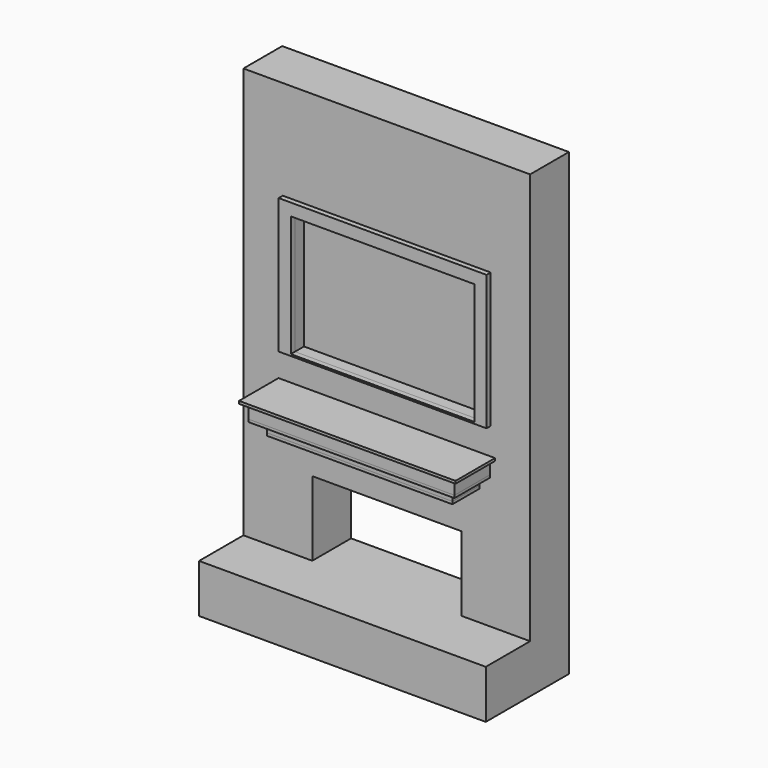
from build123d import *

# Parameters (mm, degrees)
F0_W      = 1473.2
F0_H      = 101.6
F1_DEPTH  = 304.8
F2_W      = 19.05
F2_H      = 304.8
F3_DEPTH  = 101.6
F4_W      = 1473.2
F4_H      = 304.8
F5_DEPTH  = 19.05
F6_W      = 1473.2
F6_H      = 304.8
F7_DEPTH  = 19.05
F8_W      = 19.05
F8_H      = 228.6
F9_DEPTH  = 76.2
F10_W     = 1320.8
F10_H     = 228.6
F11_DEPTH = 19.05
F12_W     = 1473.2
F12_H     = 101.6
F12_W_2   = 1346.2
F12_H_2   = 889
F13_DEPTH = 355.6
F14_DEPTH = 101.6
F15_W     = 504.825
F15_H     = 355.6
F16_DEPTH = 355.6
F18_DEPTH = 127
F20_DEPTH = 1468.6634540558
F22_DEPTH = 38.1
F23_DEPTH = 19.05


with BuildPart() as f1:
    # F0 (on Front) → F1 (new body)
    with BuildSketch(Plane.XZ):
        with Locations((0, -50.8)):
            Rectangle(F0_W, F0_H)
    extrude(amount=F1_DEPTH)


with BuildPart() as f3:
    # F2 (on face) → F3 (new body, through all)
    with BuildSketch(Plane(origin=(0, 0, -101.6), x_dir=(1, 0, 0), z_dir=(0, 0, -1))):
        Polygon((755.65, 323.85), (-755.65, 323.85), (-755.65, 304.8), (-736.6, 304.8), (736.6, 304.8), (755.65, 304.8), align=None)
        with Locations((-746.125, 152.4)):
            Rectangle(F2_W, F2_H)
        with Locations((746.125, 152.4)):
            Rectangle(F2_W, F2_H)
    extrude(amount=-F3_DEPTH)


with BuildPart() as f5:
    # F4 (on face) → F5 (new body)
    with BuildSketch(Plane(origin=(0, 0, -101.6), x_dir=(1, 0, 0), z_dir=(0, 0, -1))):
        Polygon((755.65, 323.85), (-755.65, 323.85), (-755.65, 0), (-736.6, 0), (-736.6, 304.8), (736.6, 304.8), (736.6, 0), (755.65, 0), align=None)
        with Locations((0, 152.4)):
            Rectangle(F4_W, F4_H)
    extrude(amount=F5_DEPTH)


with BuildPart() as f7:
    # F6 (on face) → F7 (new body)
    with BuildSketch(Plane.XY):
        with Locations((0, -152.4)):
            Rectangle(F6_W, F6_H)
        Polygon((-736.6, 0), (-755.65, 0), (-793.75, 0), (-793.75, -361.95), (793.75, -361.95), (793.75, 0), (755.65, 0), (736.6, 0), (736.6, -304.8), (-736.6, -304.8), align=None)
    extrude(amount=F7_DEPTH)


with BuildPart() as f9:
    # F8 (on face) → F9 (new body)
    with BuildSketch(Plane(origin=(0, 0, -120.65), x_dir=(1, 0, 0), z_dir=(0, 0, -1))):
        with Locations((-669.925, 114.3)):
            Rectangle(F8_W, F8_H)
        Polygon((-679.45, 247.65), (-679.45, 228.6), (-660.4, 228.6), (660.4, 228.6), (679.45, 228.6), (679.45, 247.65), align=None)
        with Locations((669.925, 114.3)):
            Rectangle(F8_W, F8_H)
    extrude(amount=F9_DEPTH)


with BuildPart() as f11:
    # F10 (on face) → F11 (new body)
    with BuildSketch(Plane(origin=(0, 0, -196.85), x_dir=(1, 0, 0), z_dir=(0, 0, -1))):
        Polygon((679.45, 0), (679.45, 247.65), (-679.45, 247.65), (-679.45, 0), (-660.4, 0), (-660.4, 228.6), (660.4, 228.6), (660.4, 0), align=None)
        with Locations((0, 114.3)):
            Rectangle(F10_W, F10_H)
    extrude(amount=F11_DEPTH)


with BuildPart() as f13:
    # F12 (on face) → F13 (new body)
    with BuildSketch(Plane(origin=(0, 0, 0), x_dir=(-1, 0, 0), z_dir=(0, 1, 0))):
        Polygon((-1050.925, 1117.6), (-1050.925, -1079.5), (-546.1, -1079.5), (-546.1, -533.4), (546.1, -533.4), (546.1, -1079.5), (1050.925, -1079.5), (1050.925, 1117.6), (1050.925, 1933.5181713104), (-1050.925, 1933.5181713104), align=None)
        with Locations((0, -50.8)):
            Rectangle(F12_W, F12_H, mode=Mode.SUBTRACT)
        with Locations((0, 673.1)):
            Rectangle(F12_W_2, F12_H_2, mode=Mode.SUBTRACT)
        with Locations((0, 673.1)):
            Rectangle(F12_W_2, F12_H_2)
    extrude(amount=F13_DEPTH)

    # F12 (on face) → F14 (cut)
    with BuildSketch(Plane(origin=(0, 0, 0), x_dir=(-1, 0, 0), z_dir=(0, 1, 0))):
        with Locations((0, 673.1)):
            Rectangle(F12_W_2, F12_H_2)
    extrude(amount=F14_DEPTH, mode=Mode.SUBTRACT)

    # F15 (on face) → F16 (join)
    with BuildSketch(Plane(origin=(0, 0, -1079.5), x_dir=(1, 0, 0), z_dir=(0, 0, -1))):
        Polygon((-546.1, 0), (-546.1, -355.6), (1050.925, -355.6), (1050.925, 406.4), (-1050.925, 406.4), (-1050.925, 0), align=None)
        with Locations((-798.5125, -177.8)):
            Rectangle(F15_W, F15_H)
    extrude(amount=F16_DEPTH)


with BuildPart() as f18:
    # F17 (on face) → F18 (new body)
    with BuildSketch(Plane.XZ):
        Polygon((476.25, -215.9), (400.05, -215.9), (438.15, -444.5), (476.25, -444.5), align=None)
        Polygon((552.45, -215.9), (476.25, -215.9), (476.25, -444.5), (514.35, -444.5), align=None)
    extrude(amount=F18_DEPTH)


with BuildPart() as f18b:
    # F17 (on face) → F18, piece 2 (new body)
    with BuildSketch(Plane.XZ):
        Polygon((-400.05, -215.9), (-476.25, -215.9), (-476.25, -444.5), (-438.15, -444.5), align=None)
        Polygon((-476.25, -215.9), (-552.45, -215.9), (-514.35, -444.5), (-476.25, -444.5), align=None)
    extrude(amount=F18_DEPTH)


with BuildPart() as f20_tool:
    # F19 (on face) → F20 (new body)
    with BuildSketch(Plane(origin=(-679.45, 0, 0), x_dir=(0, -1, 0), z_dir=(-1, 0, 0))):
        Polygon((127, -444.5), (127, -215.9), (50.8, -444.5), align=None)
    extrude(amount=-F20_DEPTH)


with BuildPart() as f18_1:
    add(f18.part)

    # F20: cut by f20_tool
    add(f20_tool.part, mode=Mode.SUBTRACT)


with BuildPart() as f18b_1:
    add(f18b.part)

    # F20: cut by f20_tool
    add(f20_tool.part, mode=Mode.SUBTRACT)


with BuildPart() as f22:
    # F21 (on face) → F22 (new body)
    with BuildSketch(Plane.XZ):
        Polygon((762, 1206.5), (-762, 1206.5), (-762, 215.9), (762, 215.9), (762, 1117.6), align=None)
        Polygon((-673.1, 228.6), (-673.1, 304.8), (-673.1, 1117.6), (673.1, 1117.6), (673.1, 304.8), (673.1, 228.6), align=None, mode=Mode.SUBTRACT)
    extrude(amount=F22_DEPTH)


with BuildPart() as f23:
    # F23 (new): a face of the model
    f23_faces = [f13.part.faces().sort_by_distance(p)[0] for p in [
        (0, 101.6, 673.1),
    ]]
    extrude(f23_faces, amount=F23_DEPTH)


solid = Compound([f1.part, f3.part, f5.part, f7.part, f9.part, f11.part, f13.part, f22.part, f23.part])
